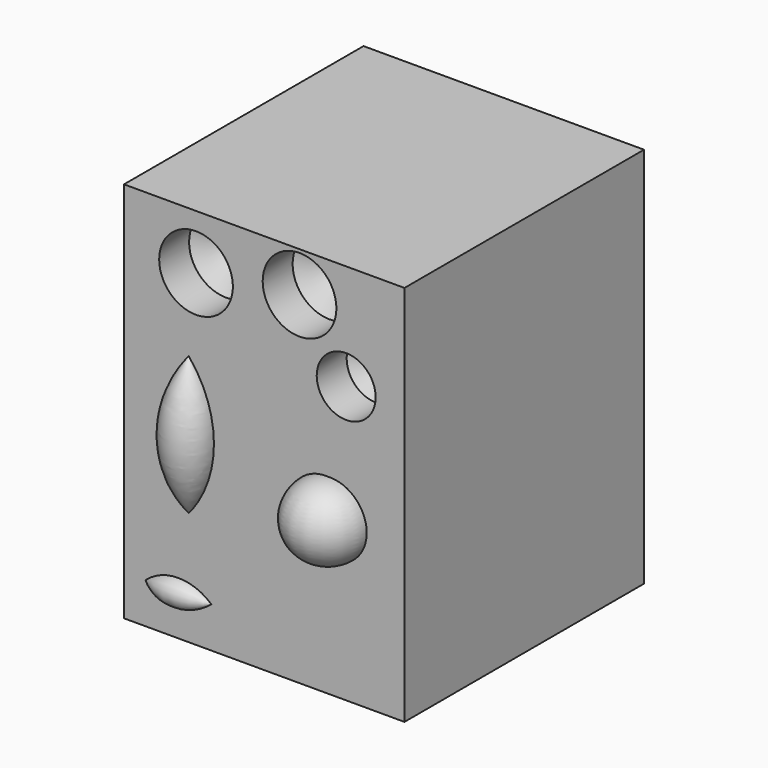
from build123d import *

# Parameters (mm, degrees)
F0_W     = 95.1766818762
F0_H     = 129.6523809433
F1_DEPTH = 101.6
F4_D     = 25
F4_DEPTH = 12.7
F4_TIP   = 7.5107577378
F6_D     = 25
F6_DEPTH = 12.7
F6_TIP   = 7.5107577378
F8_D     = 20
F8_DEPTH = 12.7
F8_TIP   = 6.0086061903


with BuildPart() as f1:
    # F0 (on Front) → F1 (new body)
    with BuildSketch(Plane.XZ):
        Rectangle(F0_W, F0_H)
    extrude(amount=F1_DEPTH)

    # F4
    with Locations(Plane.XZ.offset(101.6)):
        with Locations((-23.15864712, 46.2796799839)):
            Hole(F4_D / 2, depth=F4_DEPTH)
            with Locations((0, 0, -(F4_DEPTH + F4_TIP / 2))):  # 118° drill point
                Cone(0, F4_D / 2, F4_TIP, mode=Mode.SUBTRACT)

    # F6
    with Locations(Plane.XZ.offset(101.6)):
        with Locations((11.9670834392, 51.1955991387)):
            Hole(F6_D / 2, depth=F6_DEPTH)
            with Locations((0, 0, -(F6_DEPTH + F6_TIP / 2))):  # 118° drill point
                Cone(0, F6_D / 2, F6_TIP, mode=Mode.SUBTRACT)

    # F8
    with Locations(Plane.XZ.offset(101.6)):
        with Locations((27.8060790151, 28.9396252483)):
            Hole(F8_D / 2, depth=F8_DEPTH)
            with Locations((0, 0, -(F8_DEPTH + F8_TIP / 2))):  # 118° drill point
                Cone(0, F8_D / 2, F8_TIP, mode=Mode.SUBTRACT)

    # F10 (on face) → F11 (revolve)
    with BuildSketch(Plane.XZ.offset(101.6)):
        with BuildLine():
            Line((21.5573441237, -24.9955244362), (21.5573441237, 0))
            ThreePointArc((21.5573441237, 0), (8.3452494243, -12.4977622181), (21.5573441237, -24.9955244362))
        make_face()
    revolve(axis=Axis((21.5573441237, -101.6, -12.4977622181), (0, 0, -1)))

    # F12 (on face) → F13 (revolve)
    with BuildSketch(Plane.XZ.offset(101.6)):
        with BuildLine():
            Line((-25.6040021777, -26.2589156628), (-25.6040021777, 20.6457804888))
            ThreePointArc((-25.6040021777, 20.6457804888), (-34.1356207701, -2.806567587), (-25.6040021777, -26.2589156628))
        make_face()
    revolve(axis=Axis((-25.6040021777, -101.6, -2.806567587), (0, 0, -1)))

    # F14 (on face) → F15 (revolve)
    with BuildSketch(Plane.XZ.offset(101.6)):
        with BuildLine():
            Line((-40.2762889862, -51.005076617), (-17.9586093873, -51.005076617))
            ThreePointArc((-17.9586093873, -51.005076617), (-29.1174491867, -46.7633210593), (-40.2762889862, -51.005076617))
        make_face()
    revolve(axis=Axis((-29.1174491867, -101.6, -51.005076617), (-1, 0, 0)))


solid = f1.part
